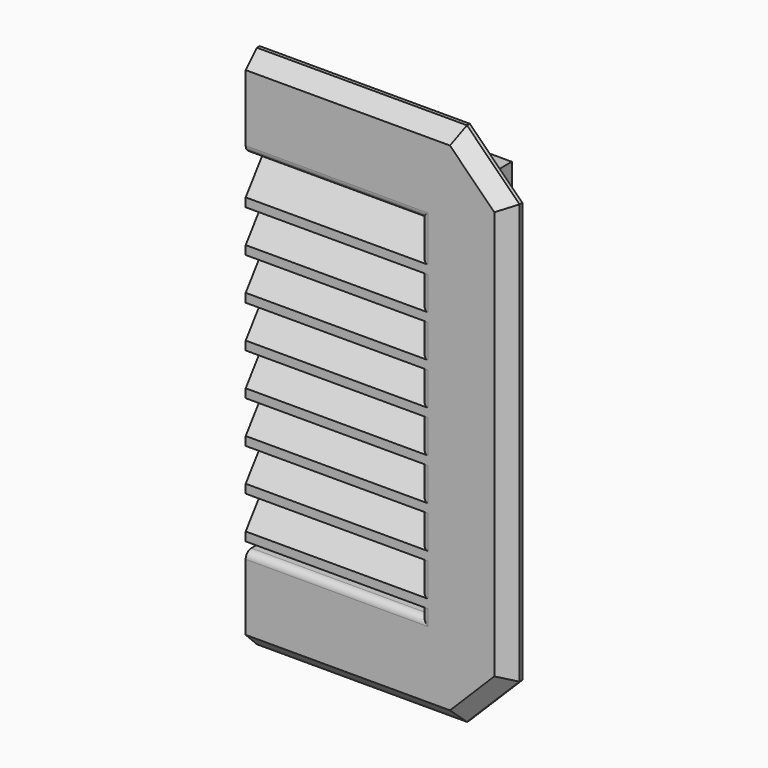
from build123d import *

# Parameters (mm, degrees)
PAD_DEPTH           = 5
PAD001_DEPTH        = 20
PAD002_DEPTH        = 50
LINEARPATTERN_COUNT = 8
LINEARPATTERN_PITCH = 12
SKETCH003_R         = 1.6
HOLE_DEPTH          = 20
HOLE_TIPS_R         = 1.6
CHAMFER_SIZE        = 4
CHAMFER001_SIZE     = 1
FILLET_R            = 2


with BuildPart() as obj1:
    # Sketch → Pad (new body)
    with BuildSketch(Plane.XZ):
        Polygon((-50, -50), (-50, 50), (0, 50), (0, 75), (-60, 75), (-75, 60), (-75, -60), (-60, -75), (0, -75), (0, -50), align=None)
    extrude(amount=PAD_DEPTH)

    # Sketch001 → Pad001 (join)
    with BuildSketch(Plane.XZ):
        Polygon((0, 56), (-56, 56), (-56, 0), (-56, -56), (0, -56), (0, -50), (-50, -50), (-50, 0), (-50, 50), (0, 50), align=None)
    extrude(amount=-PAD001_DEPTH)

    # Sketch002 (on Face5 of Pad001) → Pad002 (join)
    with BuildSketch(Plane(origin=(-50, 0, 0), x_dir=(0, 0, 1), z_dir=(1, 0, 0))):
        Polygon((39, 5), (47, -0.839889), (47, -2.664855), (36.5, 5), align=None)
    pad002 = extrude(amount=PAD002_DEPTH)

    # LinearPattern: Pad002 ×8
    with Locations(*[(0, 0, -i * LINEARPATTERN_PITCH) for i in range(1, LINEARPATTERN_COUNT)]):
        add(pad002)

    # Sketch003 (on Face22 of LinearPattern) → Hole (cut)
    with BuildSketch(Plane(origin=(0, 20, 0), x_dir=(1, 0, 0), z_dir=(0, 1, 0))):
        with Locations((-25, 53)):
            Circle(SKETCH003_R)
        with Locations((-53, 0)):
            Circle(SKETCH003_R)
        with Locations((-25, -53)):
            Circle(SKETCH003_R)
    extrude(amount=-HOLE_DEPTH, mode=Mode.SUBTRACT)

    # Hole tips → Hole tip 1 section 0
    with BuildSketch(Plane(origin=(0, 0, 0), x_dir=(1, 0, 0), z_dir=(0, 1, 0)), mode=Mode.PRIVATE) as hole_tip_1_s0:
        with Locations((-25, 53)):
            Circle(HOLE_TIPS_R)
    loft([hole_tip_1_s0.sketch, Vertex(-25, -0.961377, -53)], mode=Mode.SUBTRACT)

    # Hole tips → Hole tip 2 section 0
    with BuildSketch(Plane(origin=(0, 0, 0), x_dir=(1, 0, 0), z_dir=(0, 1, 0)), mode=Mode.PRIVATE) as hole_tip_2_s0:
        with Locations((-53, 0)):
            Circle(HOLE_TIPS_R)
    loft([hole_tip_2_s0.sketch, Vertex(-53, -0.961377, 0)], mode=Mode.SUBTRACT)

    # Hole tips → Hole tip 3 section 0
    with BuildSketch(Plane(origin=(0, 0, 0), x_dir=(1, 0, 0), z_dir=(0, 1, 0)), mode=Mode.PRIVATE) as hole_tip_3_s0:
        with Locations((-25, -53)):
            Circle(HOLE_TIPS_R)
    loft([hole_tip_3_s0.sketch, Vertex(-25, -0.961377, 53)], mode=Mode.SUBTRACT)

    # Chamfer
    chamfer_edges = [obj1.edges().sort_by_distance(p)[0] for p in [
        (-30, -5, 75),
        (-67.5, -5, 67.5),
        (-75, -5, 0),
        (-67.5, -5, -67.5),
        (-30, -5, -75),
    ]]
    chamfer(chamfer_edges, length=CHAMFER_SIZE)

    # Chamfer001
    chamfer001_edges = [obj1.edges().sort_by_distance(p)[0] for p in [
        (-23.4, 20, 53),
        (-51.4, 20, 0),
        (-23.4, 20, -53),
    ]]
    chamfer(chamfer001_edges, length=CHAMFER001_SIZE)

    # Fillet
    fillet_edges = [obj1.edges().sort_by_distance(p)[0] for p in [
        (-25, -5, 50),
        (-50, -5, 44.5),
        (-50, -5, 31.75),
        (-50, -5, 19.75),
        (-50, -5, 7.75),
        (-50, -5, -4.25),
        (-50, -5, -16.25),
        (-50, -5, -28.25),
        (-50, -5, -40.25),
        (-50, -5, -48.75),
        (-25, -5, -50),
    ]]
    fillet(fillet_edges, radius=FILLET_R)


with BuildPart() as part_mirroring:
    # Part__Mirroring: instance of obj1
    add(obj1.part.mirror(Plane(origin=(0, 0, 0), x_dir=(0, -1, 0), z_dir=(1, 0, 0))))


solid = part_mirroring.part
